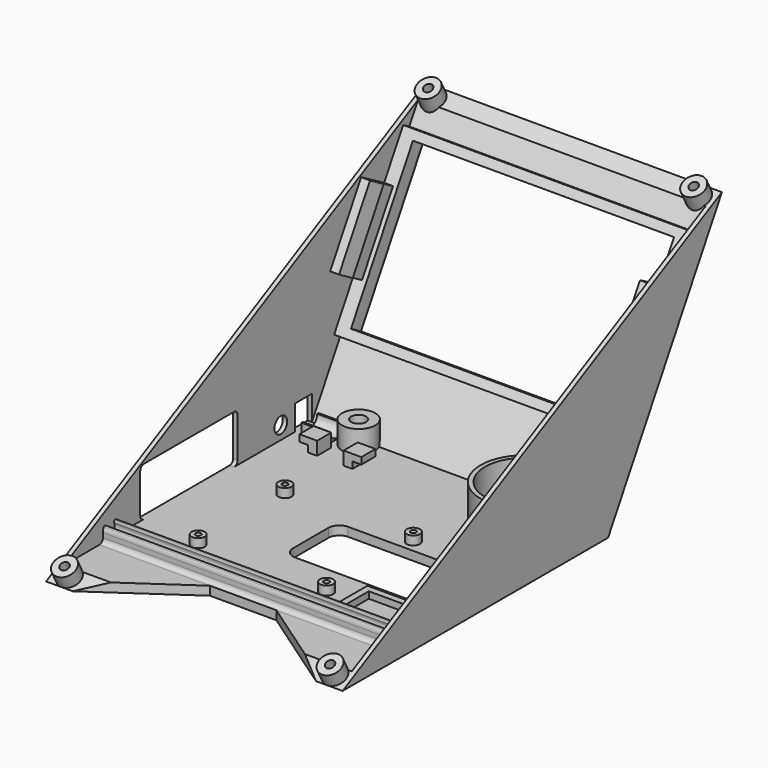
from build123d import *

# Parameters (mm, degrees)
PAD_DEPTH         = 130
SKETCH001_R       = 5
PAD001_DEPTH      = 6
PAD001_DEPTH_BACK = 6
POCKET_DEPTH      = 130.001
SKETCH003_R       = 1.95
POCKET001_DEPTH   = 104.8095847369
PAD002_DEPTH      = 2
PAD003_DEPTH      = 2
SKETCH006_R       = 2.6
PAD004_DEPTH      = 130
POCKET002_DEPTH   = 130
FILLET_R          = 0.6
SKETCH008_W       = 70
SKETCH008_H       = 118
POCKET003_DEPTH   = 59.6768099413
SKETCH009_W       = 78
SKETCH009_H       = 130
SKETCH009_W_2     = 70
SKETCH009_H_2     = 118
PAD005_DEPTH      = 4
FILLET001_R       = 2
SKETCH010_W       = 35
SKETCH010_H       = 4
PAD006_DEPTH      = 15
PAD007_DEPTH      = 35
SKETCH012_R       = 3
SKETCH012_R_2     = 1.25
PAD008_DEPTH      = 4
SKETCH013_W       = 30
SKETCH013_H       = 75
POCKET004_DEPTH   = 4
FILLET002_R       = 5
SKETCH014_W       = 55
SKETCH014_H       = 22
POCKET005_DEPTH   = 2
FILLET003_R       = 2
FILLET004_R       = 2
SKETCH015_W       = 9.6
SKETCH015_H       = 11.3
POCKET006_DEPTH   = 2
SKETCH016_W       = 9.6
SKETCH016_H       = 12
PAD009_DEPTH      = 4.6
POCKET007_DEPTH   = 12
SKETCH018_R       = 3.6
POCKET008_DEPTH   = 2
SKETCH019_R       = 3.4
POCKET009_DEPTH   = 2.5
SKETCH020_R       = 0.75
POCKET010_DEPTH   = 1.5
SKETCH021_R       = 20.5
SKETCH021_R_2     = 18.5
PAD010_DEPTH      = 20
SKETCH022_R       = 7.5
PAD011_DEPTH      = 10
SKETCH023_R       = 3.4
POCKET011_DEPTH   = 14
POCKET012_DEPTH   = 4
SKETCH025_W       = 8
SKETCH025_H       = 4
PAD012_DEPTH      = 6
SKETCH026_W       = 8
SKETCH026_H       = 3
PAD013_DEPTH      = 4
SKETCH027_W       = 8
SKETCH027_H       = 3
PAD014_DEPTH      = 4
PAD015_DEPTH      = 3
SKETCH029_W       = 55
SKETCH029_H       = 64
POCKET013_DEPTH   = 5
SKETCH030_R       = 3
PAD016_DEPTH      = 4
SKETCH031_R       = 1.25
POCKET014_DEPTH   = 8.001


with BuildPart() as part:
    # Sketch → Pad (new body)
    with BuildSketch(Plane.YZ):
        Polygon((0, 0), (64.288887714, 111.3516198827), (57.6905989232, 107.9230484541), (-2.3094010768, 4), (-142.3094010768, 4), (-150.007404666, 0), align=None)
    extrude(amount=PAD_DEPTH)

    # Sketch001 (on Face3 of Pad) → Pad001 (new body, two sides)
    with BuildSketch(Plane(origin=(0, -31.8913379999, 61.3749085968), x_dir=(0, -0.8873565094, -0.4610839676), z_dir=(0, -0.4610839676, 0.8873565094))) as pad001_sk:
        with Locations((-103.3896096926, 125)):
            Circle(SKETCH001_R)
        with Locations((-103.3896096926, 5)):
            Circle(SKETCH001_R)
        with Locations((128.1100469909, 5)):
            Circle(SKETCH001_R)
        with Locations((128.1100469909, 125)):
            Circle(SKETCH001_R)
    extrude(amount=PAD001_DEPTH)
    extrude(pad001_sk.sketch, amount=-PAD001_DEPTH_BACK)

    # Sketch002 (on Face10 of Pad001) → Pocket (cut, through all)
    with BuildSketch(Plane.YZ.offset(130)):
        Polygon((0, 0), (83.7157890325, 145.0000000001), (83.7157890325, -144.9999999999), (-167.4315780651, 0), align=None)
    extrude(amount=-POCKET_DEPTH, mode=Mode.SUBTRACT)

    # Sketch003 (on Face32 of Pocket) → Pocket001 (cut, through all)
    with BuildSketch(Plane(origin=(0, -34.6578418056, 66.6990476533), x_dir=(0, -0.8873565094, -0.4610839676), z_dir=(0, -0.4610839676, 0.8873565094))):
        with Locations((128.1100469909, 125)):
            Circle(SKETCH003_R)
        with Locations((128.1100469909, 5)):
            Circle(SKETCH003_R)
        with Locations((-103.3896096926, 125)):
            Circle(SKETCH003_R)
        with Locations((-103.3896096926, 5)):
            Circle(SKETCH003_R)
    extrude(amount=-POCKET001_DEPTH, mode=Mode.SUBTRACT)

    # Sketch004 (on Face5 of Pocket001) → Pad002 (new body)
    with BuildSketch(Plane(origin=(0, 0, 0), x_dir=(0, 1, 0), z_dir=(-1, 0, 0))):
        Polygon((-150.007404666, 0), (64.288887714, -111.3516198827), (0, 0), align=None)
    extrude(amount=PAD002_DEPTH)

    # Sketch005 (on Face8 of Pad002) → Pad003 (new body)
    with BuildSketch(Plane.YZ.offset(130)):
        Polygon((64.288887714, 111.3516198827), (0, 0), (-150.007404666, 0), align=None)
    extrude(amount=PAD003_DEPTH)

    # Sketch006 (on Face27 of Pad003) → Pad004 (new body)
    with BuildSketch(Plane.YZ):
        with BuildLine():
            ThreePointArc((-112.2094010768, 8.1000175291), (-116.3094098413, 12.2), (-120.4094010768, 8.1))
            Line((-120.4094010768, 4), (-120.4094010768, 8.1))
            Line((-120.4094010768, 4), (-112.2094010768, 4))
            Line((-112.2094010768, 4), (-112.2094010768, 8.1000175291))
        make_face()
        with Locations((-116.3094010768, 8.1)):
            Circle(SKETCH006_R, mode=Mode.SUBTRACT)
    extrude(amount=PAD004_DEPTH)

    # Sketch007 (on Face27 of Pad004) → Pocket002 (cut)
    with BuildSketch(Plane.YZ):
        Polygon((-116.3094010768, 8.1), (-108.8094010768, 14.3932472338), (-123.8094010768, 14.3932472338), align=None)
    extrude(amount=POCKET002_DEPTH, mode=Mode.SUBTRACT)

    # Fillet
    fillet_edges = [part.edges().sort_by_distance(p)[0] for p in [
        (65, -113.168619, 10.735429),
        (65, -114.317686, 9.771248),
        (65, -118.301117, 9.771248),
        (65, -119.450183, 10.735429),
    ]]
    fillet(fillet_edges, radius=FILLET_R)

    # Sketch008 (on Face37 of Fillet) → Pocket003 (cut, through all)
    with BuildSketch(Plane(origin=(0, -3.4641016151, 2), x_dir=(0, -0.5, -0.8660254038), z_dir=(0, -0.8660254038, 0.5))):
        with Locations((-73.3094010768, 65)):
            Rectangle(SKETCH008_W, SKETCH008_H)
    extrude(amount=-POCKET003_DEPTH, mode=Mode.SUBTRACT)

    # Sketch009 (on Face37 of Pocket003) → Pad005 (new body)
    with BuildSketch(Plane(origin=(0, -3.4641016151, 2), x_dir=(0, -0.5, -0.8660254038), z_dir=(0, -0.8660254038, 0.5))):
        with Locations((-73.3094010768, 65)):
            Rectangle(SKETCH009_W, SKETCH009_H)
        with Locations((-73.3094010768, 65)):
            Rectangle(SKETCH009_W_2, SKETCH009_H_2, mode=Mode.SUBTRACT)
    extrude(amount=PAD005_DEPTH)

    # Fillet001
    fillet001_edges = [part.edges().sort_by_distance(p)[0] for p in [
        (6, 36.654701, 63.487804),
        (65, 19.154701, 33.176915),
        (124, 36.654701, 63.487804),
        (65, 54.154701, 93.798693),
    ]]
    fillet(fillet001_edges, radius=FILLET001_R)

    # Sketch010 (on Face60 of Fillet001) → Pad006 (new body)
    with BuildSketch(Plane(origin=(0, -6.9282032303, 4), x_dir=(0, -0.5, -0.8660254038), z_dir=(0, -0.8660254038, 0.5))):
        with Locations((-73.3094010768, 2)):
            Rectangle(SKETCH010_W, SKETCH010_H)
        with Locations((-73.3094010768, 128)):
            Rectangle(SKETCH010_W, SKETCH010_H)
    extrude(amount=PAD006_DEPTH)

    # Sketch011 (on Face64 of Pad006) → Pad007 (new body)
    with BuildSketch(Plane(origin=(0, 45.4047005384, 78.6432482349), x_dir=(0, -0.8660254038, 0.5), z_dir=(0, 0.5, 0.8660254038))):
        Polygon((23, 4), (15.5, 4), (15.5, 5), align=None)
        Polygon((23, 126), (15.5, 126), (15.5, 125), align=None)
    extrude(amount=-PAD007_DEPTH)

    # Sketch012 (on Face69 of Pad007) → Pad008 (new body)
    with BuildSketch(Plane(origin=(0, 0, 4), x_dir=(0, -1, 0), z_dir=(0, 0, 1))):
        with Locations((96.3094010768, 22)):
            Circle(SKETCH012_R)
        with Locations((96.3094010768, 22)):
            Circle(SKETCH012_R_2, mode=Mode.SUBTRACT)
        with Locations((96.3094010768, 80)):
            Circle(SKETCH012_R)
        with Locations((96.3094010768, 80)):
            Circle(SKETCH012_R_2, mode=Mode.SUBTRACT)
        with Locations((47.3094010768, 80)):
            Circle(SKETCH012_R)
        with Locations((47.3094010768, 80)):
            Circle(SKETCH012_R_2, mode=Mode.SUBTRACT)
        with Locations((47.3094010768, 22)):
            Circle(SKETCH012_R)
        with Locations((47.3094010768, 22)):
            Circle(SKETCH012_R_2, mode=Mode.SUBTRACT)
    extrude(amount=PAD008_DEPTH)

    # Sketch013 (on Face69 of Pad008) → Pocket004 (cut)
    with BuildSketch(Plane(origin=(0, 0, 4), x_dir=(0, -1, 0), z_dir=(0, 0, 1))):
        with Locations((71.8094010768, 92.5)):
            Rectangle(SKETCH013_W, SKETCH013_H)
    extrude(amount=-POCKET004_DEPTH, mode=Mode.SUBTRACT)

    # Fillet002
    fillet002_edges = [part.edges().sort_by_distance(p)[0] for p in [
        (55, -56.809401, 2),
        (55, -86.809401, 2),
    ]]
    fillet(fillet002_edges, radius=FILLET002_R)

    # Sketch014 (on Face37 of Fillet002) → Pocket005 (cut)
    with BuildSketch(Plane.YZ):
        with Locations((-71.8094010768, 15)):
            Rectangle(SKETCH014_W, SKETCH014_H)
    extrude(amount=-POCKET005_DEPTH, mode=Mode.SUBTRACT)

    # Fillet003
    fillet003_edges = [part.edges().sort_by_distance(p)[0] for p in [
        (-1, -99.309401, 26),
        (-1, -44.309401, 4),
        (-1, -99.309401, 4),
        (-1, -44.309401, 26),
    ]]
    fillet(fillet003_edges, radius=FILLET003_R)

    # Fillet004
    fillet004_edges = [part.edges().sort_by_distance(p)[0] for p in [
        (65, -112.209401, 4),
        (65, -120.409401, 4),
    ]]
    fillet(fillet004_edges, radius=FILLET004_R)

    # Sketch015 (on Face2 of Fillet004) → Pocket006 (cut)
    with BuildSketch(Plane.YZ):
        with Locations((-7.1094010768, 9.65)):
            Rectangle(SKETCH015_W, SKETCH015_H)
    extrude(amount=-POCKET006_DEPTH, mode=Mode.SUBTRACT)

    # Sketch016 (on Face1 of Pocket006) → Pad009 (new body)
    with BuildSketch(Plane(origin=(0, 0, 4), x_dir=(0, -1, 0), z_dir=(0, 0, 1))):
        with Locations((7.1094010768, 9)):
            Rectangle(SKETCH016_W, SKETCH016_H)
    extrude(amount=PAD009_DEPTH)

    # Sketch017 (on Face2 of Pad009) → Pocket007 (cut)
    with BuildSketch(Plane(origin=(3, 0, 0), x_dir=(0, 1, 0), z_dir=(-1, 0, 0))):
        with BuildLine():
            ThreePointArc((-3.1094010768, -8.6), (-7.1094010768, -4.6), (-11.1094010768, -8.6))
            Line((-11.1094010768, -8.6), (-3.1094010768, -8.6))
        make_face()
    extrude(amount=-POCKET007_DEPTH, mode=Mode.SUBTRACT)

    # Sketch018 (on Face18 of Pocket007) → Pocket008 (cut)
    with BuildSketch(Plane.YZ):
        with Locations((-19.9094010768, 10)):
            Circle(SKETCH018_R)
    extrude(amount=-POCKET008_DEPTH, mode=Mode.SUBTRACT)

    # Sketch019 (on Face91 of Pocket008) → Pocket009 (cut)
    with BuildSketch(Plane(origin=(0, 0, 0), x_dir=(0, 0.5, 0.8660254038), z_dir=(0, 0.8660254038, -0.5))):
        with Locations((30, 124)):
            Circle(SKETCH019_R)
    extrude(amount=-POCKET009_DEPTH, mode=Mode.SUBTRACT)

    # Sketch020 (on Face145 of Pocket009) → Pocket010 (cut)
    with BuildSketch(Plane(origin=(0, -2.1650635095, 1.25), x_dir=(0, 0.5, 0.8660254038), z_dir=(0, 0.8660254038, -0.5))):
        with Locations((30, 125.5)):
            Circle(SKETCH020_R)
        with Locations((30, 122.5)):
            Circle(SKETCH020_R)
    extrude(amount=-POCKET010_DEPTH, mode=Mode.SUBTRACT)

    # Sketch021 (on Face6 of Pocket010) → Pad010 (new body)
    with BuildSketch(Plane(origin=(0, 0, 4), x_dir=(0, -1, 0), z_dir=(0, 0, 1))):
        with Locations((20.8094010768, 111.5)):
            Circle(SKETCH021_R)
        with Locations((20.8094010768, 111.5)):
            Circle(SKETCH021_R_2, mode=Mode.SUBTRACT)
    extrude(amount=PAD010_DEPTH)

    # Sketch022 (on Face6 of Pad010) → Pad011 (new body)
    with BuildSketch(Plane(origin=(0, 0, 4), x_dir=(0, -1, 0), z_dir=(0, 0, 1))):
        with Locations((5.3094010768, 23.5)):
            Circle(SKETCH022_R)
    extrude(amount=PAD011_DEPTH)

    # Sketch023 (on Face45 of Pad011) → Pocket011 (cut)
    with BuildSketch(Plane(origin=(0, 0, 14), x_dir=(0, -1, 0), z_dir=(0, 0, 1))):
        with Locations((5.3094010768, 23.5)):
            Circle(SKETCH023_R)
    extrude(amount=-POCKET011_DEPTH, mode=Mode.SUBTRACT)

    # Sketch024 (on Face128 of Pocket011) → Pocket012 (cut)
    with BuildSketch(Plane(origin=(0, 0, 4), x_dir=(0, -1, 0), z_dir=(0, 0, 1))):
        Polygon((122.4094010768, 50), (150.007404666, 10), (150.007404666, 120), (122.4094010768, 80), align=None)
    extrude(amount=-POCKET012_DEPTH, mode=Mode.SUBTRACT)

    # Sketch025 (on Face6 of Pocket012) → Pad012 (new body)
    with BuildSketch(Plane(origin=(0, 0, 4), x_dir=(0, -1, 0), z_dir=(0, 0, 1))):
        with Locations((17.3094010768, 31.5)):
            Rectangle(SKETCH025_W, SKETCH025_H)
        with Locations((17.3094010768, 15.5)):
            Rectangle(SKETCH025_W, SKETCH025_H)
    extrude(amount=PAD012_DEPTH)

    # Sketch026 (on Face30 of Pad012) → Pad013 (new body)
    with BuildSketch(Plane.YZ.offset(33.5)):
        with Locations((-17.3094010768, 8.5)):
            Rectangle(SKETCH026_W, SKETCH026_H)
    extrude(amount=PAD013_DEPTH)

    # Sketch027 (on Face27 of Pad013) → Pad014 (new body)
    with BuildSketch(Plane(origin=(13.5, 0, 0), x_dir=(0, 1, 0), z_dir=(-1, 0, 0))):
        with Locations((-17.3094010768, -8.5)):
            Rectangle(SKETCH027_W, SKETCH027_H)
    extrude(amount=PAD014_DEPTH)

    # Sketch028 (on Face6 of Pad014) → Pad015 (new body)
    with BuildSketch(Plane(origin=(0, 0, 4), x_dir=(0, -1, 0), z_dir=(0, 0, 1))):
        Polygon((92.2094010768, 130), (92.2094010768, 97), (110.2094010768, 97), (110.2094010768, 100), (95.2094010768, 100), (95.2094010768, 130), align=None)
    extrude(amount=PAD015_DEPTH)

    # Sketch029 (on Face6 of Pad015) → Pocket013 (cut)
    with BuildSketch(Plane(origin=(0, 0, 4), x_dir=(0, -1, 0), z_dir=(0, 0, 1))):
        with Locations((71.8094010768, 51)):
            Rectangle(SKETCH029_W, SKETCH029_H)
    extrude(amount=POCKET013_DEPTH, mode=Mode.SUBTRACT)

    # Sketch030 (on Face14 of Pocket013) → Pad016 (new body)
    with BuildSketch(Plane(origin=(0, 0, 4), x_dir=(0, -1, 0), z_dir=(0, 0, 1))):
        with Locations((51.3094010768, 85)):
            Circle(SKETCH030_R)
        with Locations((100.3094010768, 85)):
            Circle(SKETCH030_R)
        with Locations((100.3094010768, 27)):
            Circle(SKETCH030_R)
        with Locations((51.3094010768, 27)):
            Circle(SKETCH030_R)
    extrude(amount=PAD016_DEPTH)

    # Sketch031 (on Face141 of Pad016) → Pocket014 (cut, through all)
    with BuildSketch(Plane(origin=(0, 0, 8), x_dir=(0, -1, 0), z_dir=(0, 0, 1))):
        with Locations((51.3094010768, 85)):
            Circle(SKETCH031_R)
        with Locations((100.3094010768, 85)):
            Circle(SKETCH031_R)
        with Locations((100.3094010768, 27)):
            Circle(SKETCH031_R)
        with Locations((51.3094010768, 27)):
            Circle(SKETCH031_R)
    extrude(amount=-POCKET014_DEPTH, mode=Mode.SUBTRACT)


solid = part.part
